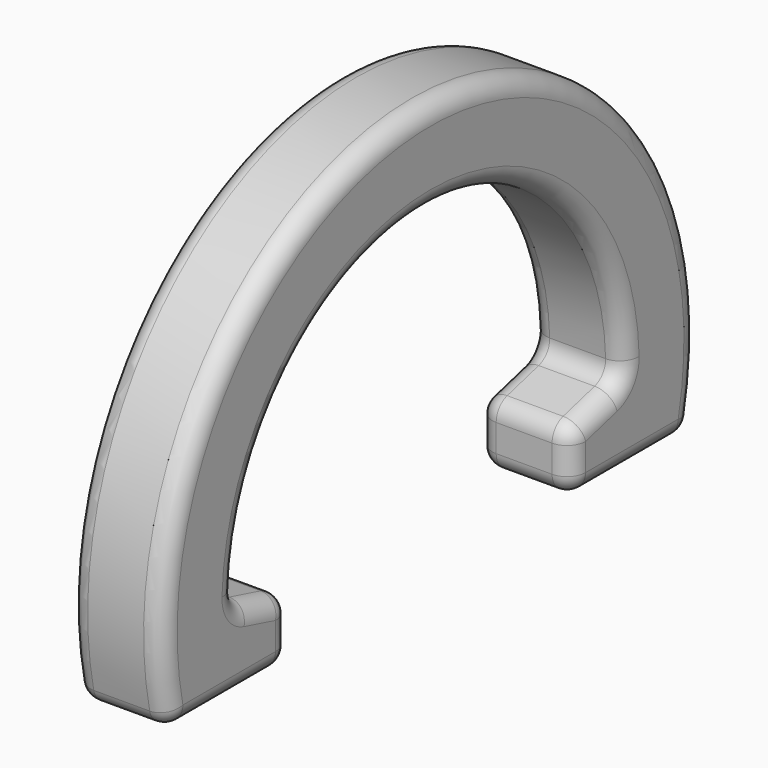
from build123d import *

# Parameters (mm, degrees)
PAD_DEPTH = 2.5
FILLET_R  = 1


with BuildPart() as part:
    # Sketch → Pad (new body, symmetric)
    with BuildSketch(Plane.YZ):
        with BuildLine():
            ThreePointArc((12.993845, -0.4), (0, 13), (-12.993845, -0.4))
            Line((-12.993845, -0.4), (-9.402299, -1.362352))
            Line((-9.402299, -1.362352), (-9.402299, -4.6))
            Line((-9.402299, -4.6), (-17.402299, -4.6))
            ThreePointArc((17.402299, -4.6), (0, 18), (-17.402299, -4.6))
            Line((17.402299, -4.6), (9.402299, -4.6))
            Line((9.402299, -4.6), (9.402299, -1.362352))
            Line((9.402299, -1.362352), (12.993845, -0.4))
        make_face()
    extrude(amount=PAD_DEPTH, both=True)

    # Fillet
    fillet_edges = [part.edges().sort_by_distance(p)[0] for p in [
        (0, -9.402299, -1.362352),
        (-2.5, -9.402299, -2.981176),
        (-2.5, 0, 13),
        (-2.5, 0, 18),
        (-2.5, 11.198072, -0.881176),
        (-2.5, 9.402299, -2.981176),
        (-2.5, -11.198072, -0.881176),
        (-2.5, -13.402299, -4.6),
        (-2.5, 13.402299, -4.6),
        (2.5, 0, 18),
        (0, 17.402299, -4.6),
        (0, -9.402299, -4.6),
        (2.5, -9.402299, -2.981176),
        (2.5, 0, 13),
        (0, -12.993845, -0.4),
        (0, 12.993845, -0.4),
        (0, 9.402299, -1.362352),
        (0, 9.402299, -4.6),
        (2.5, 9.402299, -2.981176),
        (2.5, 11.198072, -0.881176),
        (2.5, -11.198072, -0.881176),
        (2.5, -13.402299, -4.6),
        (2.5, 13.402299, -4.6),
        (0, -17.402299, -4.6),
    ]]
    fillet(fillet_edges, radius=FILLET_R)


solid = part.part
